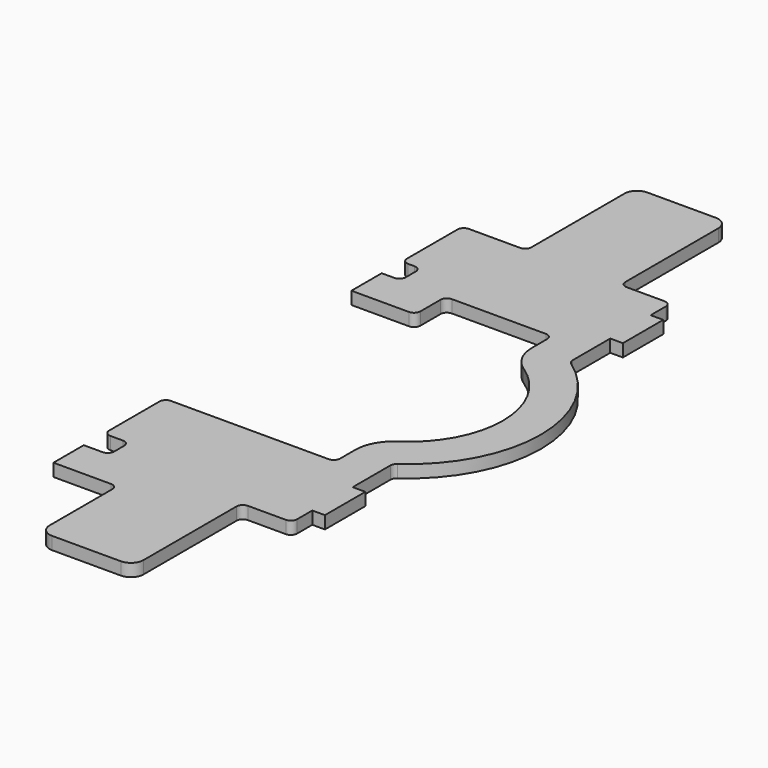
from build123d import *

# Parameters (mm, degrees)
F1_DEPTH = 6.35
F2_R     = 3.175


with BuildPart() as f1:
    # F0 (on Top) → F1 (new body)
    with BuildSketch(Plane.XY):
        with BuildLine():
            Line((6.35, 0), (0, 0))
            Line((0, 0), (0, -19.05))
            Line((0, -19.05), (28.956, -19.05))
            ThreePointArc((28.956, -19.05), (31.201064, -18.120064), (32.131, -15.875))
            Line((32.131, -15.875), (32.131, -3.175))
            ThreePointArc((32.131, -3.175), (33.060936, -0.929936), (35.306, 0))
            Line((35.306, 0), (82.55, 0))
            ThreePointArc((82.55, 0), (84.795064, -0.929936), (85.725, -3.175))
            Line((85.725, -3.175), (85.725, -12.7))
            ThreePointArc((85.725, -12.7), (87.989524, -21.708346), (94.244716, -28.575))
            ThreePointArc((94.244716, -28.575), (115.544007, -68.2625), (94.244716, -107.95))
            ThreePointArc((94.244716, -107.95), (87.989524, -114.816654), (85.725, -123.825))
            Line((85.725, -123.825), (85.725, -133.35))
            ThreePointArc((85.725, -133.35), (84.795064, -135.595064), (82.55, -136.525))
            Line((82.55, -136.525), (3.175, -136.525))
            ThreePointArc((3.175, -136.525), (0.929936, -137.454936), (0, -139.7))
            Line((0, -139.7), (0, -171.45))
            ThreePointArc((0, -171.45), (0.929936, -173.695064), (3.175, -174.625))
            Line((3.175, -174.625), (9.525, -174.625))
            ThreePointArc((9.525, -174.625), (11.770064, -175.554936), (12.7, -177.8))
            Line((12.7, -177.8), (12.7, -184.15))
            ThreePointArc((12.7, -184.15), (11.770064, -186.395064), (9.525, -187.325))
            Line((9.525, -187.325), (0, -187.325))
            Line((0, -187.325), (0, -206.375))
            Line((0, -206.375), (28.956, -206.375))
            ThreePointArc((28.956, -206.375), (31.201064, -207.304936), (32.131, -209.55))
            Line((32.131, -209.55), (32.131, -248.9708))
            ThreePointArc((32.131, -248.9708), (33.990872, -253.460928), (38.481, -255.3208))
            Line((38.481, -255.3208), (73.025, -255.3208))
            ThreePointArc((73.025, -255.3208), (77.515128, -253.460928), (79.375, -248.9708))
            Line((79.375, -248.9708), (79.375, -190.5))
            ThreePointArc((79.375, -190.5), (80.304936, -188.254936), (82.55, -187.325))
            Line((82.55, -187.325), (104.775, -187.325))
            Line((104.775, -187.325), (104.775, -174.625))
            Line((104.775, -174.625), (111.125, -174.625))
            Line((111.125, -174.625), (111.125, -149.225))
            Line((111.125, -149.225), (104.775, -149.225))
            Line((104.775, -149.225), (104.775, -125.503588))
            ThreePointArc((104.775, -125.503588), (105.134168, -124.036716), (106.130409, -122.90172))
            ThreePointArc((106.130409, -122.90172), (134.594007, -68.2625), (106.130409, -13.62328))
            ThreePointArc((106.130409, -13.62328), (105.134168, -12.488284), (104.775, -11.021412))
            Line((104.775, -11.021412), (104.775, 12.7))
            Line((104.775, 12.7), (111.125, 12.7))
            Line((111.125, 12.7), (111.125, 38.1))
            Line((111.125, 38.1), (104.775, 38.1))
            Line((104.775, 38.1), (104.775, 50.8))
            Line((104.775, 50.8), (82.55, 50.8))
            ThreePointArc((82.55, 50.8), (80.304936, 51.729936), (79.375, 53.975))
            Line((79.375, 53.975), (79.375, 112.4458))
            ThreePointArc((79.375, 112.4458), (77.515128, 116.935928), (73.025, 118.7958))
            Line((73.025, 118.7958), (38.481, 118.7958))
            ThreePointArc((38.481, 118.7958), (33.990872, 116.935928), (32.131, 112.4458))
            Line((32.131, 112.4458), (32.131, 53.975))
            ThreePointArc((32.131, 53.975), (31.201064, 51.729936), (28.956, 50.8))
            Line((28.956, 50.8), (3.175, 50.8))
            ThreePointArc((3.175, 50.8), (0.929936, 49.870064), (0, 47.625))
            Line((0, 47.625), (0, 15.875))
            ThreePointArc((0, 15.875), (0.929936, 13.629936), (3.175, 12.7))
            Line((3.175, 12.7), (6.35, 12.7))
            ThreePointArc((6.35, 12.7), (8.595064, 11.770064), (9.525, 9.525))
            Line((9.525, 9.525), (9.525, 3.175))
            ThreePointArc((9.525, 3.175), (8.595064, 0.929936), (6.35, 0))
        make_face()
        with BuildLine():
            Line((6.35, 0), (0, 0))
            Line((0, 0), (0, -19.05))
            Line((0, -19.05), (28.956, -19.05))
            ThreePointArc((28.956, -19.05), (31.201064, -18.120064), (32.131, -15.875))
            Line((32.131, -15.875), (32.131, -3.175))
            ThreePointArc((32.131, -3.175), (33.060936, -0.929936), (35.306, 0))
            Line((35.306, 0), (82.55, 0))
            ThreePointArc((82.55, 0), (84.795064, -0.929936), (85.725, -3.175))
            Line((85.725, -3.175), (85.725, -12.7))
            ThreePointArc((85.725, -12.7), (87.989524, -21.708346), (94.244716, -28.575))
            ThreePointArc((94.244716, -28.575), (115.544007, -68.2625), (94.244716, -107.95))
            ThreePointArc((94.244716, -107.95), (87.989524, -114.816654), (85.725, -123.825))
            Line((85.725, -123.825), (85.725, -133.35))
            ThreePointArc((85.725, -133.35), (84.795064, -135.595064), (82.55, -136.525))
            Line((82.55, -136.525), (3.175, -136.525))
            ThreePointArc((3.175, -136.525), (0.929936, -137.454936), (0, -139.7))
            Line((0, -139.7), (0, -171.45))
            ThreePointArc((0, -171.45), (0.929936, -173.695064), (3.175, -174.625))
            Line((3.175, -174.625), (9.525, -174.625))
            ThreePointArc((9.525, -174.625), (11.770064, -175.554936), (12.7, -177.8))
            Line((12.7, -177.8), (12.7, -184.15))
            ThreePointArc((12.7, -184.15), (11.770064, -186.395064), (9.525, -187.325))
            Line((9.525, -187.325), (0, -187.325))
            Line((0, -187.325), (0, -206.375))
            Line((0, -206.375), (28.956, -206.375))
            ThreePointArc((28.956, -206.375), (31.201064, -207.304936), (32.131, -209.55))
            Line((32.131, -209.55), (32.131, -248.9708))
            ThreePointArc((32.131, -248.9708), (33.990872, -253.460928), (38.481, -255.3208))
            Line((38.481, -255.3208), (73.025, -255.3208))
            ThreePointArc((73.025, -255.3208), (77.515128, -253.460928), (79.375, -248.9708))
            Line((79.375, -248.9708), (79.375, -190.5))
            ThreePointArc((79.375, -190.5), (80.304936, -188.254936), (82.55, -187.325))
            Line((82.55, -187.325), (104.775, -187.325))
            Line((104.775, -187.325), (104.775, -174.625))
            Line((104.775, -174.625), (111.125, -174.625))
            Line((111.125, -174.625), (111.125, -149.225))
            Line((111.125, -149.225), (104.775, -149.225))
            Line((104.775, -149.225), (104.775, -125.503588))
            ThreePointArc((104.775, -125.503588), (105.134168, -124.036716), (106.130409, -122.90172))
            ThreePointArc((106.130409, -122.90172), (134.594007, -68.2625), (106.130409, -13.62328))
            ThreePointArc((106.130409, -13.62328), (105.134168, -12.488284), (104.775, -11.021412))
            Line((104.775, -11.021412), (104.775, 12.7))
            Line((104.775, 12.7), (111.125, 12.7))
            Line((111.125, 12.7), (111.125, 38.1))
            Line((111.125, 38.1), (104.775, 38.1))
            Line((104.775, 38.1), (104.775, 50.8))
            Line((104.775, 50.8), (82.55, 50.8))
            ThreePointArc((82.55, 50.8), (80.304936, 51.729936), (79.375, 53.975))
            Line((79.375, 53.975), (79.375, 112.4458))
            ThreePointArc((79.375, 112.4458), (77.515128, 116.935928), (73.025, 118.7958))
            Line((73.025, 118.7958), (38.481, 118.7958))
            ThreePointArc((38.481, 118.7958), (33.990872, 116.935928), (32.131, 112.4458))
            Line((32.131, 112.4458), (32.131, 53.975))
            ThreePointArc((32.131, 53.975), (31.201064, 51.729936), (28.956, 50.8))
            Line((28.956, 50.8), (3.175, 50.8))
            ThreePointArc((3.175, 50.8), (0.929936, 49.870064), (0, 47.625))
            Line((0, 47.625), (0, 15.875))
            ThreePointArc((0, 15.875), (0.929936, 13.629936), (3.175, 12.7))
            Line((3.175, 12.7), (6.35, 12.7))
            ThreePointArc((6.35, 12.7), (8.595064, 11.770064), (9.525, 9.525))
            Line((9.525, 9.525), (9.525, 3.175))
            ThreePointArc((9.525, 3.175), (8.595064, 0.929936), (6.35, 0))
        make_face()
    extrude(amount=F1_DEPTH)

    # F2
    f2_edges = [f1.edges().sort_by_distance(p)[0] for p in [
        (104.775, -187.325, 3.175),
        (104.775, 50.8, 3.175),
    ]]
    fillet(f2_edges, radius=F2_R)


solid = f1.part
